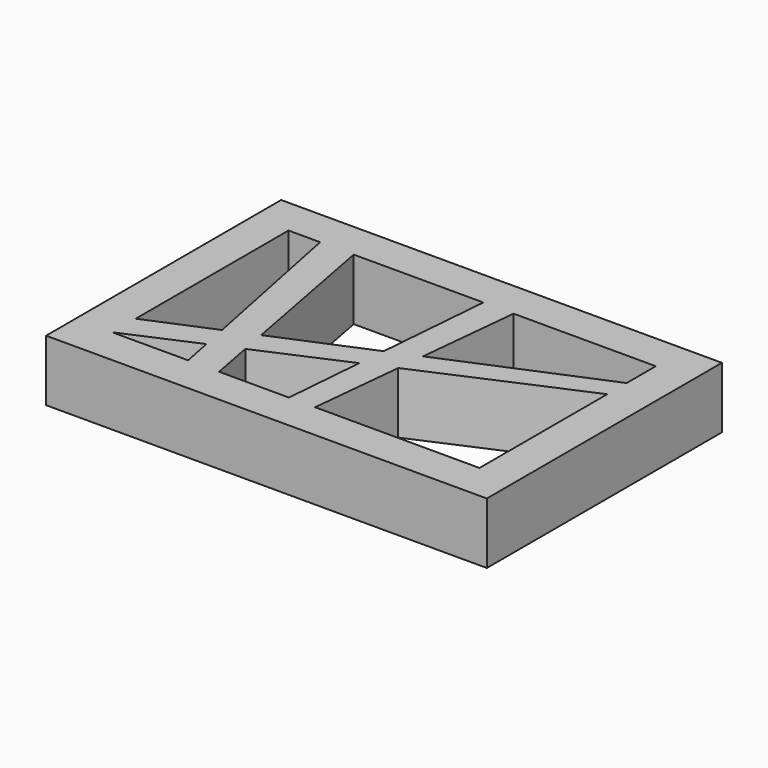
from build123d import *

# Parameters (mm, degrees)
F0_W     = 180
F0_H     = 120
F1_DEPTH = 25


with BuildPart() as f1:
    # F0 (on Top) → F1 (new body)
    with BuildSketch(Plane.XY):
        Rectangle(F0_W, F0_H)
        Polygon((-46.476726, -32.595648), (-43.98147, -45), (-75, -45), align=None, mode=Mode.SUBTRACT)
        Polygon((-0.156685, -12.451744), (-2.835166, -45), (-31.363267, -45), (-34.676992, -27.464117), align=None, mode=Mode.SUBTRACT)
        Polygon((75, 20.232793), (75, -45), (7.862872, -45), (11.653141, -7.315824), align=None, mode=Mode.SUBTRACT)
        Polygon((-75, -32.983091), (-75, 45), (-62.085841, 45), (-48.629935, -21.891666), align=None, mode=Mode.SUBTRACT)
        Polygon((-36.67982, -16.865368), (-48.37041, 45), (4.571168, 45), (0.776578, -1.110959), align=None, mode=Mode.SUBTRACT)
        Polygon((16.915059, 45), (75, 45), (75, 30.107906), (12.785247, 3.939967), align=None, mode=Mode.SUBTRACT)
    extrude(amount=F1_DEPTH)


solid = f1.part
